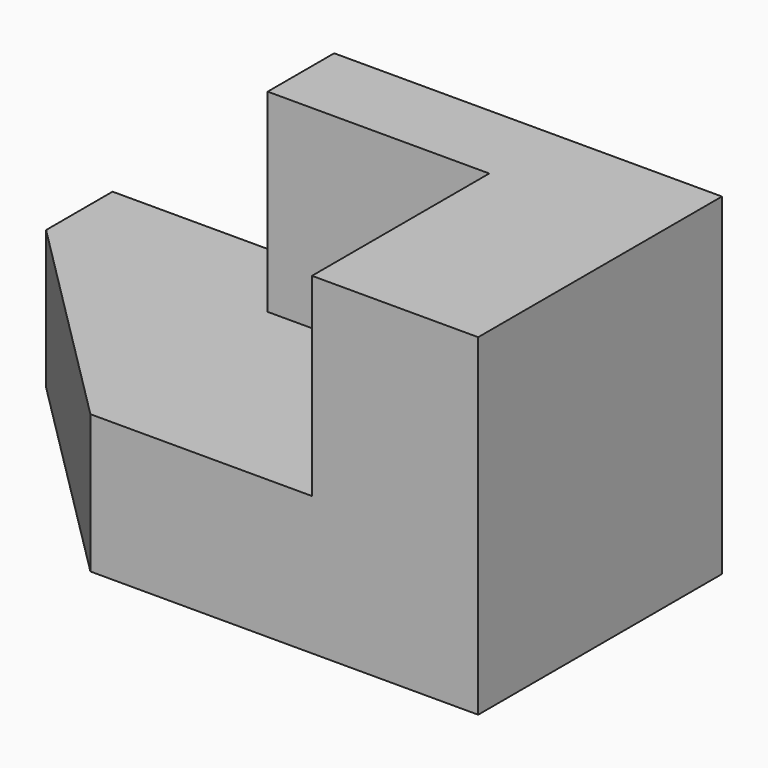
from build123d import *

# Parameters (mm, degrees)
F0_W     = 2794
F0_H     = 1524
F1_DEPTH = 1397
F3_DEPTH = 889
F5_DEPTH = 1270


with BuildPart() as f1:
    # F0 (on Front) → F1 (new body)
    with BuildSketch(Plane.XZ):
        with Locations((-1397, 762)):
            Rectangle(F0_W, F0_H)
        with Locations((-1397, 762)):
            Rectangle(F0_W, F0_H)
    extrude(amount=-F1_DEPTH)

    # F2 (on face) → F3 (cut)
    with BuildSketch(Plane.XY.offset(1524)):
        Polygon((-1778, 1016), (-1778, 1397), (-2794, 1397), (-2794, 0), (-762, 0), (-762, 1016), align=None)
    extrude(amount=-F3_DEPTH, mode=Mode.SUBTRACT)

    # F4 (on face) → F5 (cut)
    with BuildSketch(Plane.XY.offset(635)):
        Polygon((-1778, 0), (-2794, 1016), (-2794, 0), align=None)
    extrude(amount=-F5_DEPTH, mode=Mode.SUBTRACT)


solid = f1.part
